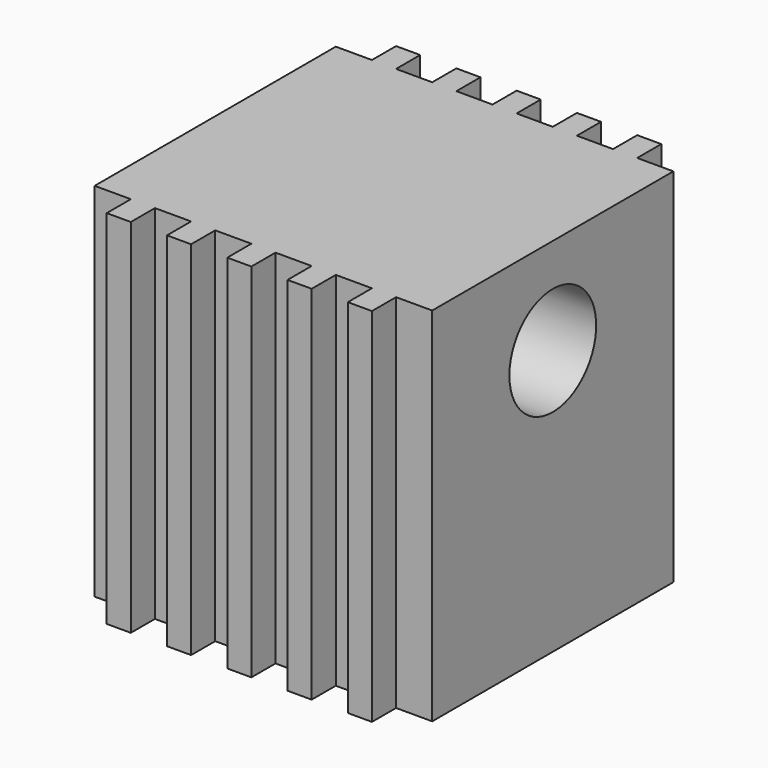
from build123d import *

# Parameters (mm, degrees)
PAD_DEPTH       = 12
SKETCH001_R     = 1.8
POCKET_DEPTH    = 11.201
POCKET001_DEPTH = 3


with BuildPart() as part:
    # Sketch → Pad (new body)
    with BuildSketch(Plane.XY):
        Polygon((-9.211601, 11.50492), (-8.011601, 11.50492), (-8.011601, 12.50492), (-7.211601, 12.50492), (-7.211601, 11.50492), (-6.011601, 11.50492), (-6.011601, 12.50492), (-5.211601, 12.50492), (-5.211601, 11.50492), (-4.011601, 11.50492), (-4.011601, 12.50492), (-3.211601, 12.50492), (-3.211601, 11.50492), (-2.011601, 11.50492), (-2.011601, 12.50492), (-1.211601, 12.50492), (-1.211601, 11.50492), (-0.011601, 11.50492), (-0.011601, 12.50492), (0.788399, 12.50492), (0.788399, 11.50492), (1.988399, 11.50492), (1.988399, 1.50492), (0.788399, 1.50492), (0.788399, 0.50492), (-0.011601, 0.50492), (-0.011601, 1.50492), (-1.211601, 1.50492), (-1.211601, 0.50492), (-2.011601, 0.50492), (-2.011601, 1.50492), (-3.211601, 1.50492), (-3.211601, 0.50492), (-4.011601, 0.50492), (-4.011601, 1.50492), (-5.211601, 1.50492), (-5.211601, 0.50492), (-6.011601, 0.50492), (-6.011601, 1.50492), (-7.211601, 1.50492), (-7.211601, 0.50492), (-8.011601, 0.50492), (-8.011601, 1.50492), (-9.211601, 1.50492), align=None)
    extrude(amount=PAD_DEPTH)

    # Sketch001 → Pocket (cut, through all)
    with BuildSketch(Plane(origin=(-9.211601, 0, 0), x_dir=(0, -1, 0), z_dir=(-1, 0, 0))):
        with Locations((-6.50492, 8.8)):
            Circle(SKETCH001_R)
    extrude(amount=-POCKET_DEPTH, mode=Mode.SUBTRACT)

    # Sketch002 → Pocket001 (cut)
    with BuildSketch(Plane.YZ.offset(-7.211601)):
        Polygon((8.10492, 6.028719), (9.70492, 8.8), (8.10492, 11.571281), (4.90492, 11.571281), (3.30492, 8.8), (4.90492, 6.028719), align=None)
    extrude(amount=-POCKET001_DEPTH, mode=Mode.SUBTRACT)


solid = part.part
